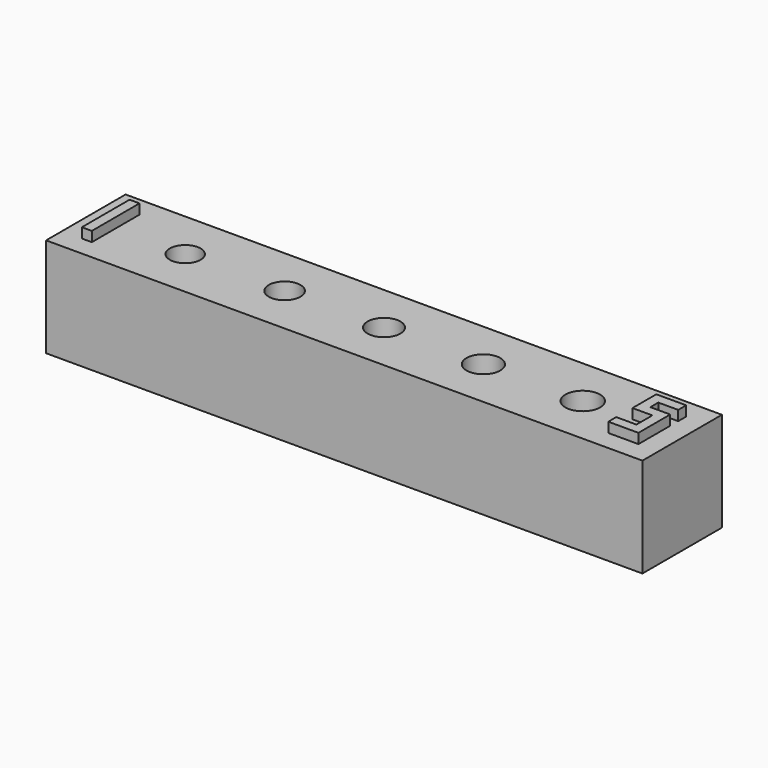
from build123d import *

# Parameters (mm, degrees)
SKETCH_W     = 60
SKETCH_H     = 10
SKETCH_R     = 1.55
SKETCH_R_2   = 1.6
SKETCH_R_3   = 1.65
SKETCH_R_4   = 1.7
SKETCH_R_5   = 1.75
PAD_DEPTH    = 10
SKETCH001_W  = 1
SKETCH001_H  = 6
PAD001_DEPTH = 1


with BuildPart() as part:
    # Sketch → Pad (new body)
    with BuildSketch(Plane.XY):
        Rectangle(SKETCH_W, SKETCH_H)
        with Locations((-20, 0)):
            Circle(SKETCH_R, mode=Mode.SUBTRACT)
        with Locations((-10, 0)):
            Circle(SKETCH_R_2, mode=Mode.SUBTRACT)
        Circle(SKETCH_R_3, mode=Mode.SUBTRACT)
        with Locations((10, 0)):
            Circle(SKETCH_R_4, mode=Mode.SUBTRACT)
        with Locations((20, 0)):
            Circle(SKETCH_R_5, mode=Mode.SUBTRACT)
    extrude(amount=PAD_DEPTH)

    # Sketch001 → Pad001 (join)
    with BuildSketch(Plane.XY.offset(10)):
        with Locations((-27.5, 0)):
            Rectangle(SKETCH001_W, SKETCH001_H)
        Polygon((25, 3), (28, 3), (28, 2), (26, 2), (26, 1), (28, 1), (28, -3), (24.966125, -3), (24.966125, -2), (27, -2), (27, 0), (25, 0), align=None)
    extrude(amount=PAD001_DEPTH)


solid = part.part
